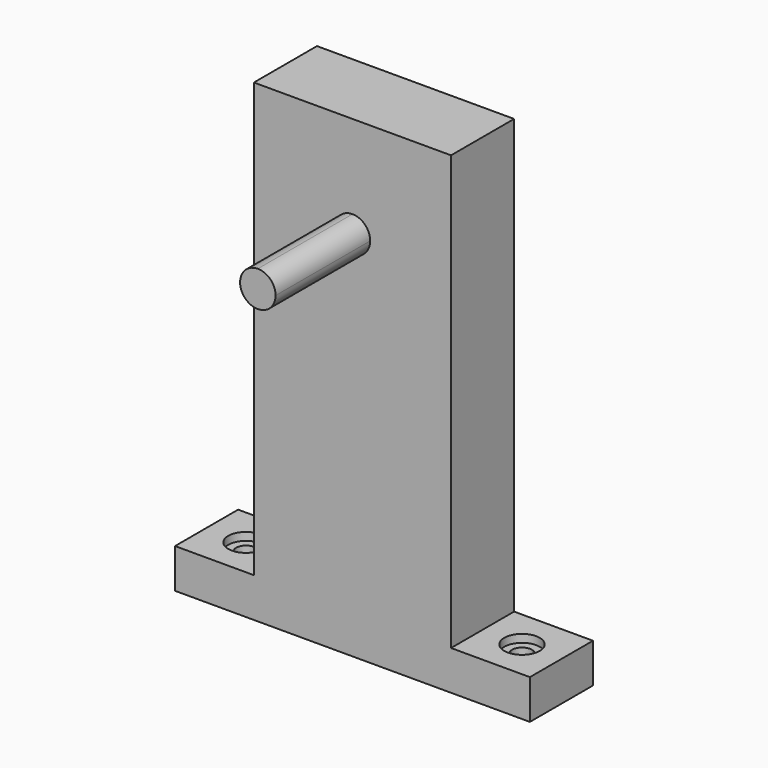
from build123d import *

# Parameters (mm, degrees)
F1_DEPTH       = 25.4
F3_DEPTH       = 38.1
F5_D           = 6.35
F5_CBORE_D     = 11.43
F5_CBORE_DEPTH = 2.54


with BuildPart() as f1:
    # F0 (on Front) → F1 (new body)
    with BuildSketch(Plane.XZ):
        Polygon((-114.3, 0), (0, 0), (0, 12.7), (-25.4, 12.7), (-25.4, 152.4), (-88.9, 152.4), (-88.9, 12.7), (-114.3, 12.7), align=None)
    extrude(amount=F1_DEPTH)

    # F2 (on face) → F3 (join)
    with BuildSketch(Plane.XZ.offset(25.4)):
        with BuildLine():
            ThreePointArc((-51.435, 119.6848), (-53.108885, 123.725915), (-57.15, 125.3998))
            ThreePointArc((-57.15, 125.3998), (-61.191115, 115.643685), (-51.435, 119.6848))
        make_face()
    extrude(amount=F3_DEPTH)

    # F5 (through all)
    with Locations(Plane.XY.offset(12.7)):
        with Locations((-101.6, -12.7), (-12.7, -12.7)):
            CounterBoreHole(F5_D / 2, F5_CBORE_D / 2, F5_CBORE_DEPTH)


solid = f1.part
